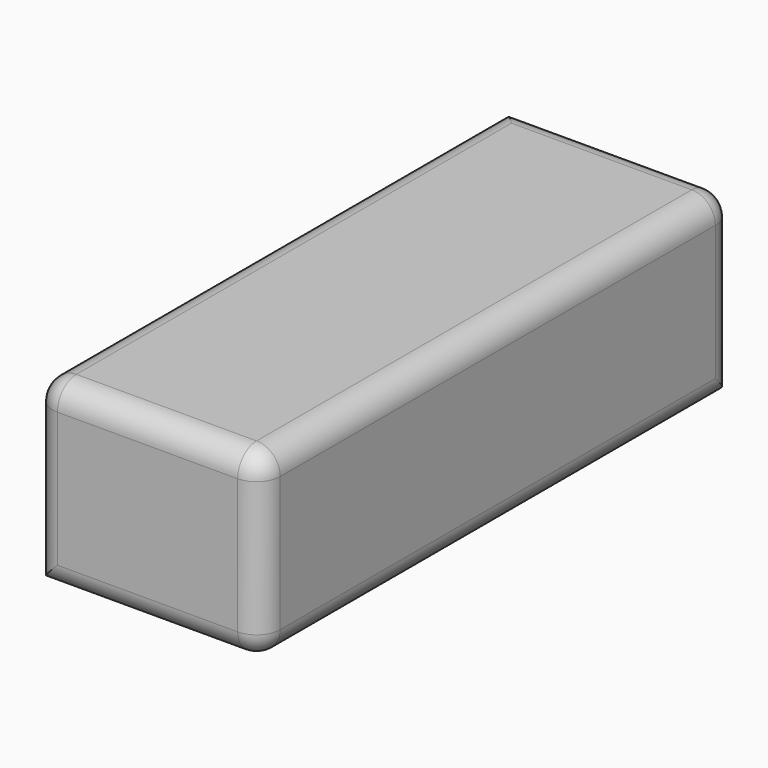
from build123d import *

# Parameters (mm, degrees)
F0_W     = 48.880734
F0_H     = 39.115017
F1_DEPTH = 127
F2_R     = 5.08


with BuildPart() as f1:
    # F0 (on Front) → F1 (new body)
    with BuildSketch(Plane.XZ):
        with Locations((-108.080711, 42.935552)):
            Rectangle(F0_W, F0_H)
        with Locations((-108.080711, 42.935552)):
            Rectangle(F0_W, F0_H)
    extrude(amount=F1_DEPTH)

    # F2
    f2_edges = [f1.edges().sort_by_distance(p)[0] for p in [
        (-108.080711, -127, 62.49306),
        (-83.640344, -63.5, 62.49306),
        (-108.080711, 0, 62.49306),
        (-132.521078, -63.5, 62.49306),
        (-83.640344, -63.5, 23.378043),
        (-108.080711, -127, 23.378043),
        (-132.521078, -127, 42.935551),
        (-83.640344, -127, 42.935551),
        (-83.640344, 0, 42.935551),
    ]]
    fillet(f2_edges, radius=F2_R)


solid = f1.part
